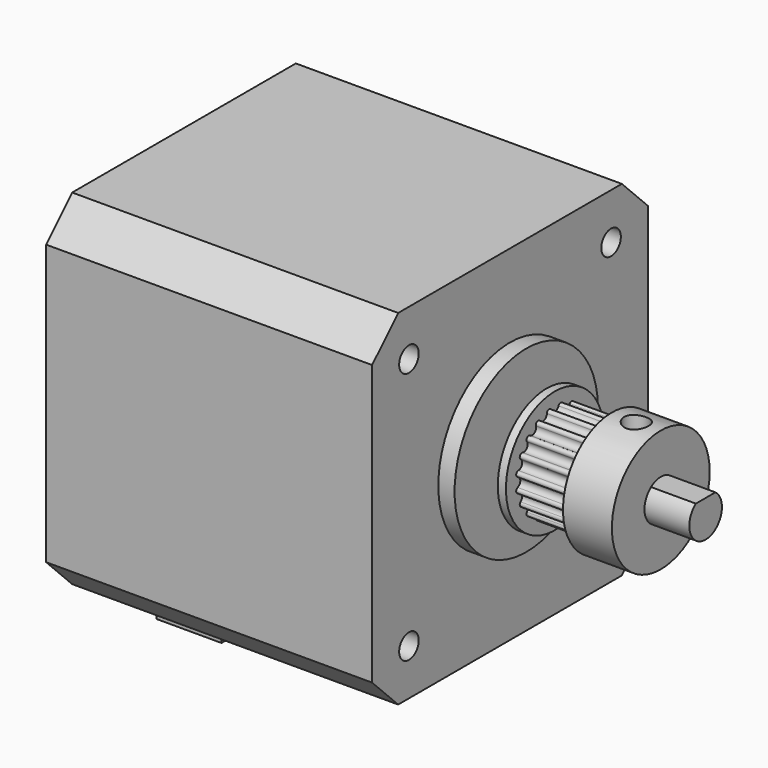
from build123d import *

# Parameters (mm, degrees)
F0_R           = 1.5
F0_R_2         = 11
F1_DEPTH       = 40
F2_DEPTH       = 24
F3_DEPTH       = 4
F4_DEPTH       = 2
F5_DEPTH       = 4.5
F6_W           = 16
F6_H           = 4
F6_H_2         = 2.5
F7_DEPTH       = 11
F8_DEPTH       = 3
F10_R          = 7.5
F10_R_2        = 2.5
F11_DEPTH      = 4.5
F11_DEPTH_BACK = 9.5
F12_R          = 7.5
F13_DEPTH      = 3.5
F14_R          = 1.5
F15_DEPTH      = 25


with BuildPart() as f1:
    # F0 (on Right) → F1 (new body)
    with BuildSketch(Plane.YZ):
        Polygon((-17.15, 21.15), (-19.15, 19.15), (-21.15, 17.15), (-21.15, 0), (-21.15, -17.15), (-19.15, -19.15), (-17.15, -21.15), (0, -21.15), (17.15, -21.15), (19.15, -19.15), (21.15, -17.15), (21.15, 0), (21.15, 17.15), (19.15, 19.15), (17.15, 21.15), (0, 21.15), align=None)
        with Locations((-15.5, -15.5)):
            Circle(F0_R, mode=Mode.SUBTRACT)
        with Locations((15.5, -15.5)):
            Circle(F0_R, mode=Mode.SUBTRACT)
        with Locations((-15.5, 15.5)):
            Circle(F0_R, mode=Mode.SUBTRACT)
        Circle(F0_R_2, mode=Mode.SUBTRACT)
        with Locations((15.5, 15.5)):
            Circle(F0_R, mode=Mode.SUBTRACT)
        Circle(F0_R_2)
        with BuildLine():
            ThreePointArc((1.5, 2), (2.2360679775, 1.1180339887), (2.5, 0))
            ThreePointArc((2.5, 0), (-1.1180339887, -2.2360679775), (-1.5, 2))
            ThreePointArc((-1.5, 2), (0, 2.5), (1.5, 2))
        make_face(mode=Mode.SUBTRACT)
        with BuildLine():
            ThreePointArc((-1.5, 2), (-1.1180339887, -2.2360679775), (2.5, 0))
            ThreePointArc((2.5, 0), (2.2360679775, 1.1180339887), (1.5, 2))
            Line((1.5, 2), (-1.5, 2))
        make_face()
        with Locations((15.5, 15.5)):
            Circle(F0_R)
        with Locations((15.5, -15.5)):
            Circle(F0_R)
        with Locations((-15.5, -15.5)):
            Circle(F0_R)
        with Locations((-15.5, 15.5)):
            Circle(F0_R)
        with BuildLine():
            Line((-1.5, 2), (1.5, 2))
            ThreePointArc((1.5, 2), (0, 2.5), (-1.5, 2))
        make_face()
    extrude(amount=-F1_DEPTH)

    # F0 (on Right) → F2 (join)
    with BuildSketch(Plane.YZ):
        with BuildLine():
            ThreePointArc((-1.5, 2), (-1.1180339887, -2.2360679775), (2.5, 0))
            ThreePointArc((2.5, 0), (2.2360679775, 1.1180339887), (1.5, 2))
            Line((1.5, 2), (-1.5, 2))
        make_face()
    extrude(amount=F2_DEPTH)

    # F0 (on Right) → F3 (join)
    with BuildSketch(Plane.YZ):
        with BuildLine():
            Line((-1.5, 2), (1.5, 2))
            ThreePointArc((1.5, 2), (0, 2.5), (-1.5, 2))
        make_face()
    extrude(amount=F3_DEPTH)

    # F0 (on Right) → F4 (join)
    with BuildSketch(Plane.YZ):
        Circle(F0_R_2)
        with BuildLine():
            ThreePointArc((1.5, 2), (2.2360679775, 1.1180339887), (2.5, 0))
            ThreePointArc((2.5, 0), (-1.1180339887, -2.2360679775), (-1.5, 2))
            ThreePointArc((-1.5, 2), (0, 2.5), (1.5, 2))
        make_face(mode=Mode.SUBTRACT)
    extrude(amount=F4_DEPTH)

    # F0 (on Right) → F5 (cut)
    with BuildSketch(Plane.YZ):
        with Locations((-15.5, 15.5)):
            Circle(F0_R)
        with Locations((15.5, 15.5)):
            Circle(F0_R)
        with Locations((15.5, -15.5)):
            Circle(F0_R)
        with Locations((-15.5, -15.5)):
            Circle(F0_R)
    extrude(amount=-F5_DEPTH, mode=Mode.SUBTRACT)

    # F6 (on face) → F7 (join)
    with BuildSketch(Plane(origin=(-40, 0, 0), x_dir=(0, -1, 0), z_dir=(-1, 0, 0))):
        with Locations((0, -23.15)):
            Rectangle(F6_W, F6_H)
        with Locations((0, -26.4)):
            Rectangle(F6_W, F6_H_2)
    extrude(amount=-F7_DEPTH)

    # F6 (on face) → F8 (cut)
    with BuildSketch(Plane(origin=(-40, 0, 0), x_dir=(0, -1, 0), z_dir=(-1, 0, 0))):
        with Locations((0, -26.4)):
            Rectangle(F6_W, F6_H_2)
    extrude(amount=-F8_DEPTH, mode=Mode.SUBTRACT)


with BuildPart() as f11:
    # F10 (on offset) → F11 (new body, two sides)
    with BuildSketch(Plane.YZ.offset(9)) as f11_sk:
        Circle(F10_R)
        Circle(F10_R_2, mode=Mode.SUBTRACT)
    extrude(amount=-F11_DEPTH)
    extrude(f11_sk.sketch, amount=F11_DEPTH_BACK)

    # F12 (on offset) → F13 (cut, symmetric)
    with BuildSketch(Plane.YZ.offset(9)):
        Circle(F12_R)
        with BuildLine():
            ThreePointArc((-0.9386067902, 5.9261300436), (-0.7122616293, 5.8822689812), (-0.5668572491, 5.7033458387))
            ThreePointArc((-0.5668572491, 5.7033458387), (0, 5.3), (0.5668572491, 5.7033458387))
            ThreePointArc((0.5668572491, 5.7033458387), (0.7122616293, 5.8822689812), (0.9386067902, 5.9261300436))
            ThreePointArc((0.9386067902, 5.9261300436), (1.1403200169, 5.8144711931), (1.2233175084, 5.599372748))
            ThreePointArc((1.2233175084, 5.599372748), (1.6377900702, 5.0405995364), (2.3015440695, 5.2490357013))
            ThreePointArc((2.3015440695, 5.2490357013), (2.4951221445, 5.3742692973), (2.7239429984, 5.3460391451))
            ThreePointArc((2.7239429984, 5.3460391451), (2.8812791947, 5.1775124527), (2.8937454248, 4.9472940395))
            ThreePointArc((2.8937454248, 4.9472940395), (3.1152618372, 4.2877900702), (3.8109397206, 4.2809133772))
            ThreePointArc((3.8109397206, 4.2809133772), (4.0337427197, 4.3401986898), (4.2426406871, 4.2426406871))
            ThreePointArc((4.2426406871, 4.2426406871), (4.3401986898, 4.0337427197), (4.2809133772, 3.8109397206))
            ThreePointArc((4.2809133772, 3.8109397206), (4.2877900702, 3.1152618372), (4.9472940395, 2.8937454248))
            ThreePointArc((4.9472940395, 2.8937454248), (5.1775124527, 2.8812791947), (5.3460391451, 2.7239429984))
            ThreePointArc((5.3460391451, 2.7239429984), (5.3742692973, 2.4951221445), (5.2490357013, 2.3015440695))
            ThreePointArc((5.2490357013, 2.3015440695), (5.0405995364, 1.6377900702), (5.599372748, 1.2233175084))
            ThreePointArc((5.599372748, 1.2233175084), (5.8144711931, 1.1403200169), (5.9261300436, 0.9386067902))
            ThreePointArc((5.9261300436, 0.9386067902), (5.8822689812, 0.7122616293), (5.7033458387, 0.5668572491))
            ThreePointArc((5.7033458387, 0.5668572491), (5.3, 0), (5.7033458387, -0.5668572491))
            ThreePointArc((5.7033458387, -0.5668572491), (5.8822689812, -0.7122616293), (5.9261300436, -0.9386067902))
            ThreePointArc((5.9261300436, -0.9386067902), (5.8144711931, -1.1403200169), (5.599372748, -1.2233175084))
            ThreePointArc((5.599372748, -1.2233175084), (5.0405995364, -1.6377900702), (5.2490357013, -2.3015440695))
            ThreePointArc((5.2490357013, -2.3015440695), (5.3742692973, -2.4951221445), (5.3460391451, -2.7239429984))
            ThreePointArc((5.3460391451, -2.7239429984), (5.1775124527, -2.8812791947), (4.9472940395, -2.8937454248))
            ThreePointArc((4.9472940395, -2.8937454248), (4.2877900702, -3.1152618372), (4.2809133772, -3.8109397206))
            ThreePointArc((4.2809133772, -3.8109397206), (4.3401986898, -4.0337427197), (4.2426406871, -4.2426406871))
            ThreePointArc((4.2426406871, -4.2426406871), (4.0337427197, -4.3401986898), (3.8109397206, -4.2809133772))
            ThreePointArc((3.8109397206, -4.2809133772), (3.1152618372, -4.2877900702), (2.8937454248, -4.9472940395))
            ThreePointArc((2.8937454248, -4.9472940395), (2.8812791947, -5.1775124527), (2.7239429984, -5.3460391451))
            ThreePointArc((2.7239429984, -5.3460391451), (2.4951221445, -5.3742692973), (2.3015440695, -5.2490357013))
            ThreePointArc((2.3015440695, -5.2490357013), (1.6377900702, -5.0405995364), (1.2233175084, -5.599372748))
            ThreePointArc((1.2233175084, -5.599372748), (1.1403200169, -5.8144711931), (0.9386067902, -5.9261300436))
            ThreePointArc((0.9386067902, -5.9261300436), (0.7122616293, -5.8822689812), (0.5668572491, -5.7033458387))
            ThreePointArc((0.5668572491, -5.7033458387), (0, -5.3), (-0.5668572491, -5.7033458387))
            ThreePointArc((-0.5668572491, -5.7033458387), (-0.7122616293, -5.8822689812), (-0.9386067902, -5.9261300436))
            ThreePointArc((-0.9386067902, -5.9261300436), (-1.1403200169, -5.8144711931), (-1.2233175084, -5.599372748))
            ThreePointArc((-1.2233175084, -5.599372748), (-1.6377900702, -5.0405995364), (-2.3015440695, -5.2490357013))
            ThreePointArc((-2.3015440695, -5.2490357013), (-2.4951221445, -5.3742692973), (-2.7239429984, -5.3460391451))
            ThreePointArc((-2.7239429984, -5.3460391451), (-2.8812791947, -5.1775124527), (-2.8937454248, -4.9472940395))
            ThreePointArc((-2.8937454248, -4.9472940395), (-3.1152618372, -4.2877900702), (-3.8109397206, -4.2809133772))
            ThreePointArc((-3.8109397206, -4.2809133772), (-4.0337427197, -4.3401986898), (-4.2426406871, -4.2426406871))
            ThreePointArc((-4.2426406871, -4.2426406871), (-4.3401986898, -4.0337427197), (-4.2809133772, -3.8109397206))
            ThreePointArc((-4.2809133772, -3.8109397206), (-4.2877900702, -3.1152618372), (-4.9472940395, -2.8937454248))
            ThreePointArc((-4.9472940395, -2.8937454248), (-5.1775124527, -2.8812791947), (-5.3460391451, -2.7239429984))
            ThreePointArc((-5.3460391451, -2.7239429984), (-5.3742692973, -2.4951221445), (-5.2490357013, -2.3015440695))
            ThreePointArc((-5.2490357013, -2.3015440695), (-5.0405995364, -1.6377900702), (-5.599372748, -1.2233175084))
            ThreePointArc((-5.599372748, -1.2233175084), (-5.8144711931, -1.1403200169), (-5.9261300436, -0.9386067902))
            ThreePointArc((-5.9261300436, -0.9386067902), (-5.8822689812, -0.7122616293), (-5.7033458387, -0.5668572491))
            ThreePointArc((-5.7033458387, -0.5668572491), (-5.3, 0), (-5.7033458387, 0.5668572491))
            ThreePointArc((-5.7033458387, 0.5668572491), (-5.8822689812, 0.7122616293), (-5.9261300436, 0.9386067902))
            ThreePointArc((-5.9261300436, 0.9386067902), (-5.8144711931, 1.1403200169), (-5.599372748, 1.2233175084))
            ThreePointArc((-5.599372748, 1.2233175084), (-5.0405995364, 1.6377900702), (-5.2490357013, 2.3015440695))
            ThreePointArc((-5.2490357013, 2.3015440695), (-5.3742692973, 2.4951221445), (-5.3460391451, 2.7239429984))
            ThreePointArc((-5.3460391451, 2.7239429984), (-5.1775124527, 2.8812791947), (-4.9472940395, 2.8937454248))
            ThreePointArc((-4.9472940395, 2.8937454248), (-4.2877900702, 3.1152618372), (-4.2809133772, 3.8109397206))
            ThreePointArc((-4.2809133772, 3.8109397206), (-4.3401986898, 4.0337427197), (-4.2426406871, 4.2426406871))
            ThreePointArc((-4.2426406871, 4.2426406871), (-4.0337427197, 4.3401986898), (-3.8109397206, 4.2809133772))
            ThreePointArc((-3.8109397206, 4.2809133772), (-3.1152618372, 4.2877900702), (-2.8937454248, 4.9472940395))
            ThreePointArc((-2.8937454248, 4.9472940395), (-2.8812791947, 5.1775124527), (-2.7239429984, 5.3460391451))
            ThreePointArc((-2.7239429984, 5.3460391451), (-2.4951221445, 5.3742692973), (-2.3015440695, 5.2490357013))
            ThreePointArc((-2.3015440695, 5.2490357013), (-1.6377900702, 5.0405995364), (-1.2233175084, 5.599372748))
            ThreePointArc((-1.2233175084, 5.599372748), (-1.1403200169, 5.8144711931), (-0.9386067902, 5.9261300436))
        make_face(mode=Mode.SUBTRACT)
    extrude(amount=F13_DEPTH, both=True, mode=Mode.SUBTRACT)

    # F14 (on Top) → F15 (cut)
    with BuildSketch(Plane.XY):
        with Locations((15.5, 0)):
            Circle(F14_R)
    extrude(amount=F15_DEPTH, mode=Mode.SUBTRACT)


solid = Compound([f1.part, f11.part])
